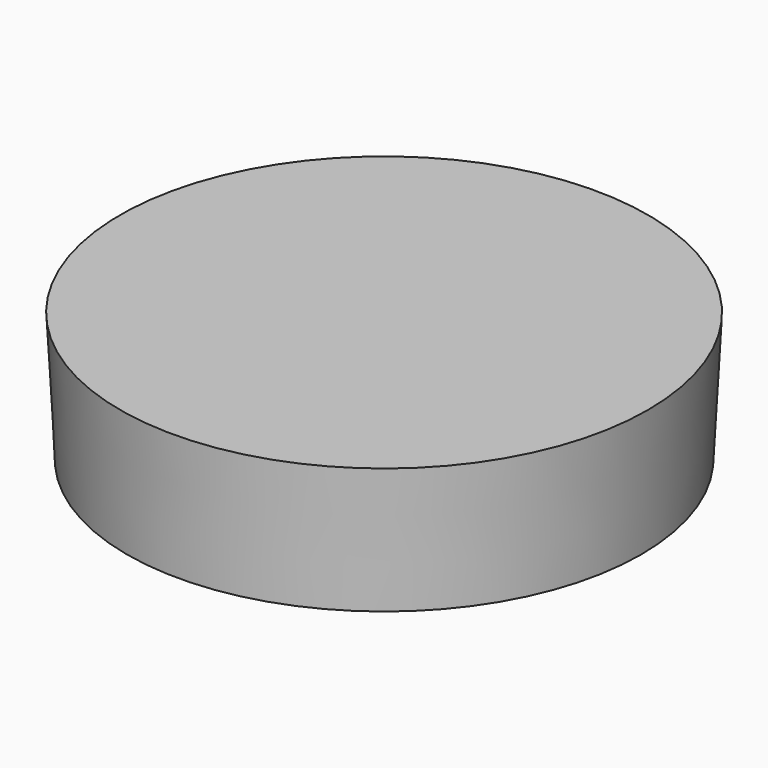
from build123d import *

# Parameters (mm, degrees)
F0_R     = 50.4568973818
F1_DEPTH = 25.4
F1_TAPER = -3


with BuildPart() as f1:
    # F0 (on Top) → F1 (new body)
    with BuildSketch(Plane.XY):
        with Locations((-0.2321694046, -0.8137803525)):
            Circle(F0_R)
        with Locations((-0.2321694046, -0.8137803525)):
            Circle(F0_R)
    extrude(amount=F1_DEPTH, taper=F1_TAPER)


solid = f1.part
